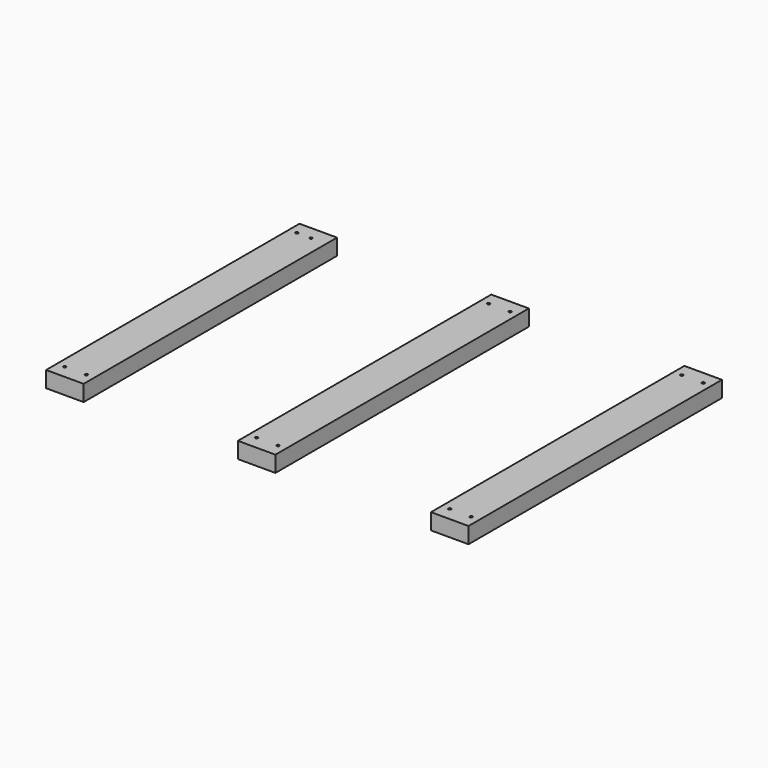
from build123d import *

# Parameters (mm, degrees)
F0_W     = 355.6
F0_H     = 3000
F0_R     = 12.7
F1_DEPTH = 152.4


with BuildPart() as f1:
    # F0 (on Top) → F1 (new body)
    with BuildSketch(Plane.XY):
        with Locations((-2191.219977, -1373)):
            Rectangle(F0_W, F0_H)
        with Locations((-2292.819977, -2746)):
            Circle(F0_R, mode=Mode.SUBTRACT)
        with Locations((-2089.619977, -2746)):
            Circle(F0_R, mode=Mode.SUBTRACT)
        with Locations((-2292.819977, 0)):
            Circle(F0_R, mode=Mode.SUBTRACT)
        with Locations((-2158.075094, 0)):
            Circle(F0_R, mode=Mode.SUBTRACT)
        with Locations((-374.722089, -1373)):
            Rectangle(F0_W, F0_H)
        with Locations((-476.322089, -2746)):
            Circle(F0_R, mode=Mode.SUBTRACT)
        with Locations((-273.122089, -2746)):
            Circle(F0_R, mode=Mode.SUBTRACT)
        with Locations((-476.322089, 0)):
            Circle(F0_R, mode=Mode.SUBTRACT)
        with Locations((-273.122089, 0)):
            Circle(F0_R, mode=Mode.SUBTRACT)
        with Locations((1454.078107, -1373)):
            Rectangle(F0_W, F0_H)
        with Locations((1352.478107, -2746)):
            Circle(F0_R, mode=Mode.SUBTRACT)
        with Locations((1555.678107, -2746)):
            Circle(F0_R, mode=Mode.SUBTRACT)
        with Locations((1352.478107, 0)):
            Circle(F0_R, mode=Mode.SUBTRACT)
        with Locations((1555.678107, 0)):
            Circle(F0_R, mode=Mode.SUBTRACT)
    extrude(amount=F1_DEPTH)


solid = f1.part
